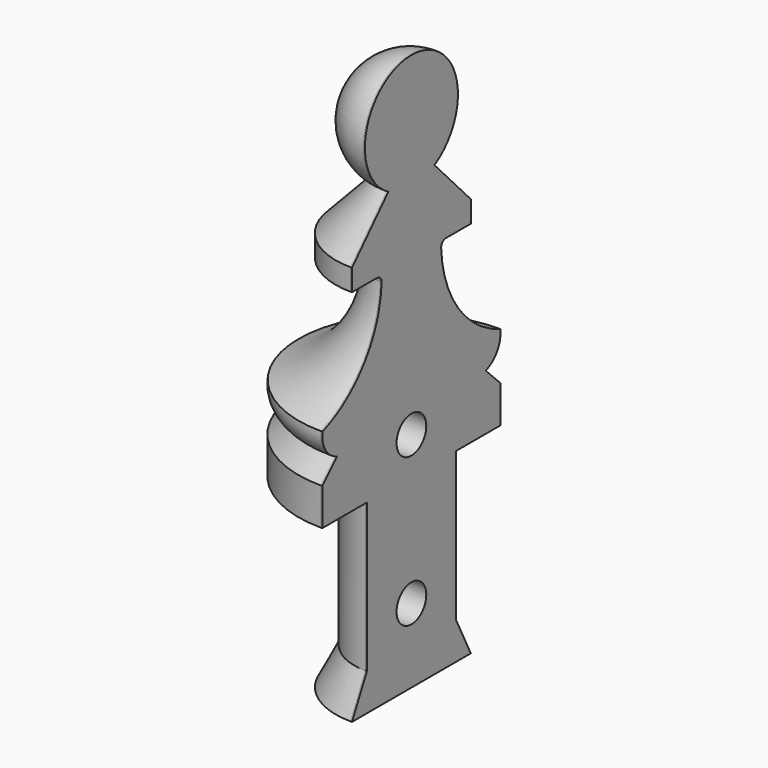
from build123d import *

# Parameters (mm, degrees)
F0_W      = 4.7625
F0_H      = 12.7
F1_ANGLE  = 180
F2_R      = 1.5875
F3_DEPTH  = 3.175
F4_R      = 0.508
F1_FACE_R = 1.5875
F5_DEPTH  = 0.127


with BuildPart() as f1:
    # F0 (on Right) → F1 (revolve)
    with BuildSketch(Plane.YZ):
        with BuildLine():
            Line((0, 31.75), (0, 0))
            Line((0, 0), (4.7625, 0))
            Line((4.7625, 0), (9.525, 0))
            Line((9.525, 0), (9.525, 3.175))
            Line((9.525, 3.175), (7.9375, 4.7625))
            ThreePointArc((7.9375, 4.7625), (9.171707, 5.725409), (9.504834, 7.254947))
            ThreePointArc((9.504834, 7.254947), (4.867571, 10.849768), (3.175, 16.467789))
            Line((3.175, 16.467789), (6.35, 16.467789))
            Line((6.35, 16.467789), (6.35, 18.317595))
            Line((6.35, 18.317595), (2.46587, 22.459295))
            ThreePointArc((2.46587, 22.459295), (4.806186, 28.053033), (0, 31.75))
        make_face()
        with Locations((2.38125, -6.35)):
            Rectangle(F0_W, F0_H)
        Polygon((4.7625, -12.7), (0, -12.7), (0, -15.875), (6.35, -15.875), align=None)
    revolve(axis=Axis((0, 0, 15.875), (0, 0, 1)), revolution_arc=F1_ANGLE)

    # F2 (on face) → F3 (cut)
    with BuildSketch(Plane.YZ):
        with Locations((0, 3.175)):
            Circle(F2_R)
        with Locations((0, -9.525)):
            Circle(F2_R)
    extrude(amount=-F3_DEPTH, mode=Mode.SUBTRACT)

    # F4
    f4_edges = [f1.edges().sort_by_distance(p)[0] for p in [
        (-3.175, 0, 16.467789),
    ]]
    fillet(f4_edges, radius=F4_R)

    # F1_face (on face) → F5 (join)
    with BuildSketch(Plane(origin=(0, 0, 6.530127), x_dir=(0, 1, 0), z_dir=(1, 0, 0))):
        with BuildLine():
            Line((3.688236, 9.937662), (6.35, 9.937662))
            Line((6.35, 9.937662), (6.35, 11.787469))
            Line((6.35, 11.787469), (2.46587, 15.929168))
            ThreePointArc((2.46587, 15.929168), (4.806186, 21.522907), (0, 25.219873))
            ThreePointArc((0, 25.219873), (-4.806186, 21.522907), (-2.46587, 15.929168))
            Line((-2.46587, 15.929168), (-6.35, 11.787469))
            Line((-6.35, 11.787469), (-6.35, 9.937662))
            Line((-6.35, 9.937662), (-3.688236, 9.937662))
            add(Edge.make_bspline(
                [(-3.688236, 9.937662), (-3.657727, 9.937662), (-3.626288, 9.935464), (-3.594162, 9.930815), (-3.561678, 9.923496), (-3.529253, 9.913372), (-3.465394, 9.887476), (-3.433961, 9.871702), (-3.40348, 9.85309), (-3.374427, 9.831747), (-3.347244, 9.807928), (-3.297392, 9.756145), (-3.274705, 9.728198), (-3.254541, 9.698489), (-3.237138, 9.667463), (-3.222581, 9.635595), (-3.199016, 9.570815), (-3.190049, 9.537897), (-3.183914, 9.505022), (-3.180455, 9.472607), (-3.17944, 9.440977), (-3.180603, 9.410368)],
                knots=[0, 0, 0, 0, 0, 0, 0, 0.24993, 0.24993, 0.24993, 0.24993, 0.24993, 0.5, 0.5, 0.5, 0.5, 0.5, 0.74907, 0.74907, 0.74907, 0.74907, 0.74907, 1, 1, 1, 1, 1, 1, 1], degree=6))
            ThreePointArc((-3.180603, 9.410368), (-5.019853, 4.104372), (-9.504834, 0.72482))
            ThreePointArc((-9.504834, 0.72482), (-9.171707, -0.804718), (-7.9375, -1.767627))
            Line((-7.9375, -1.767627), (-9.525, -3.355127))
            Line((-9.525, -3.355127), (-9.525, -6.530127))
            Line((-9.525, -6.530127), (-4.7625, -6.530127))
            Line((-4.7625, -6.530127), (-4.7625, -19.230127))
            Line((-4.7625, -19.230127), (-6.35, -22.405127))
            Line((-6.35, -22.405127), (6.35, -22.405127))
            Line((6.35, -22.405127), (4.7625, -19.230127))
            Line((4.7625, -19.230127), (4.7625, -6.530127))
            Line((4.7625, -6.530127), (9.525, -6.530127))
            Line((9.525, -6.530127), (9.525, -3.355127))
            Line((9.525, -3.355127), (7.9375, -1.767627))
            ThreePointArc((7.9375, -1.767627), (9.171707, -0.804718), (9.504834, 0.72482))
            ThreePointArc((9.504834, 0.72482), (5.019853, 4.104372), (3.180603, 9.410368))
            add(Edge.make_bspline(
                [(3.688236, 9.937662), (3.657727, 9.937662), (3.626288, 9.935464), (3.594162, 9.930815), (3.561678, 9.923496), (3.529253, 9.913372), (3.465394, 9.887476), (3.433961, 9.871702), (3.40348, 9.85309), (3.374427, 9.831747), (3.347244, 9.807928), (3.297392, 9.756145), (3.274705, 9.728198), (3.254541, 9.698489), (3.237138, 9.667463), (3.222581, 9.635595), (3.199016, 9.570815), (3.190049, 9.537897), (3.183914, 9.505022), (3.180455, 9.472607), (3.17944, 9.440977), (3.180603, 9.410368)],
                knots=[0, 0, 0, 0, 0, 0, 0, 0.24993, 0.24993, 0.24993, 0.24993, 0.24993, 0.5, 0.5, 0.5, 0.5, 0.5, 0.74907, 0.74907, 0.74907, 0.74907, 0.74907, 1, 1, 1, 1, 1, 1, 1], degree=6))
        make_face()
        with Locations((0, -16.055127)):
            Circle(F1_FACE_R, mode=Mode.SUBTRACT)
        with Locations((0, -3.355127)):
            Circle(F1_FACE_R, mode=Mode.SUBTRACT)
    extrude(amount=F5_DEPTH)


solid = f1.part
